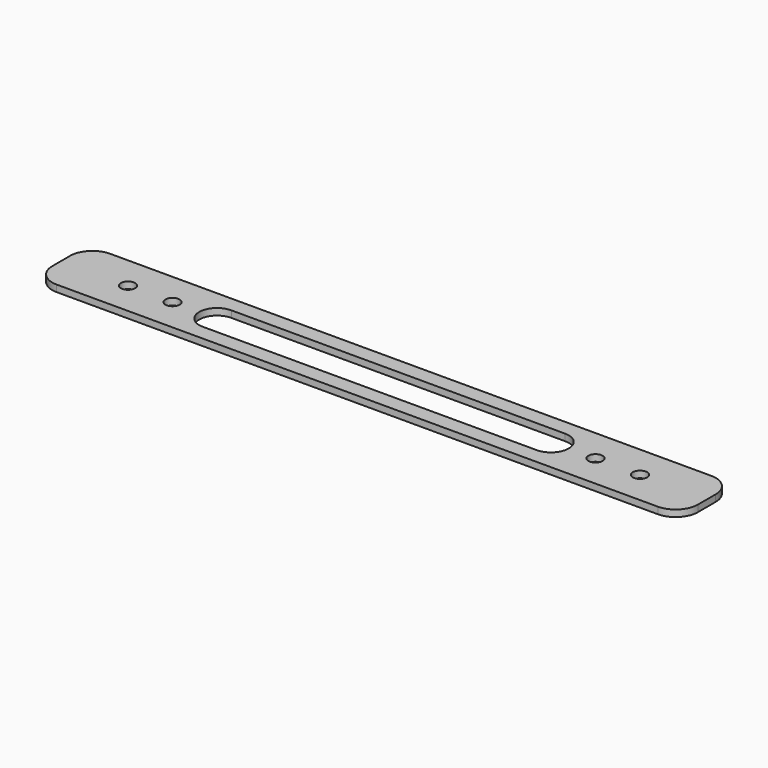
from build123d import *

# Parameters (mm, degrees)
F0_R     = 1.6
F1_DEPTH = 1.5


with BuildPart() as f1:
    # F0 (on Top) → F1 (new body)
    with BuildSketch(Plane.XY):
        with BuildLine():
            ThreePointArc((-72.5, -2.5), (-71.035534, -6.035534), (-67.5, -7.5))
            Line((-67.5, -7.5), (-65.920711, -7.5))
            Line((-65.920711, -7.5), (67.5, -7.5))
            ThreePointArc((67.5, -7.5), (71.035534, -6.035534), (72.5, -2.5))
            Line((72.5, -2.5), (72.5, 2.5))
            ThreePointArc((72.5, 2.5), (71.035534, 6.035534), (67.5, 7.5))
            Line((67.5, 7.5), (-65.920711, 7.5))
            Line((-65.920711, 7.5), (-67.5, 7.5))
            ThreePointArc((-67.5, 7.5), (-71.035534, 6.035534), (-72.5, 2.5))
            Line((-72.5, 2.5), (-72.5, -2.5))
        make_face()
        with Locations((-57.5, 0)):
            Circle(F0_R, mode=Mode.SUBTRACT)
        with Locations((-47.5, 0)):
            Circle(F0_R, mode=Mode.SUBTRACT)
        with BuildLine():
            ThreePointArc((-37.5, -4), (-41.5, 0), (-37.5, 4))
            Line((-37.5, 4), (0, 4))
            Line((0, 4), (37.5, 4))
            ThreePointArc((37.5, 4), (41.5, 0), (37.5, -4))
            Line((37.5, -4), (0, -4))
            Line((0, -4), (-37.5, -4))
        make_face(mode=Mode.SUBTRACT)
        with Locations((47.5, 0)):
            Circle(F0_R, mode=Mode.SUBTRACT)
        with Locations((57.5, 0)):
            Circle(F0_R, mode=Mode.SUBTRACT)
    extrude(amount=F1_DEPTH)


solid = f1.part
